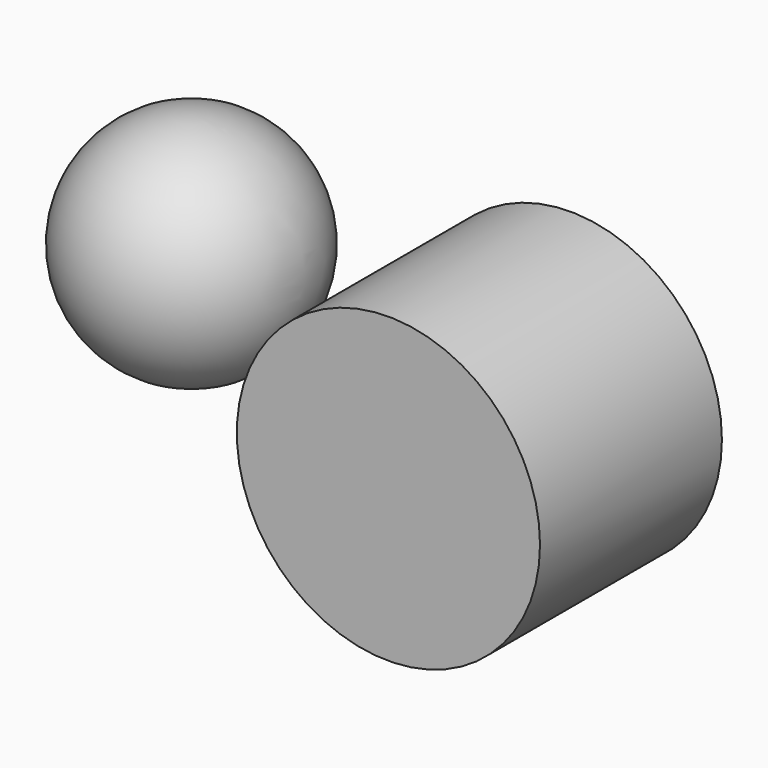
from build123d import *

# Parameters (mm, degrees)
F1_R     = 2
F2_DEPTH = 3


with BuildPart() as f2:
    # F1 (on Front) → F2 (new body)
    with BuildSketch(Plane.XZ):
        Circle(F1_R)
    extrude(amount=F2_DEPTH)


with BuildPart() as f4:
    # F3 (on Front) → F4 (revolve)
    with BuildSketch(Plane.XZ):
        with BuildLine():
            Line((-5, 1.5), (-5, -1.5))
            ThreePointArc((-5, -1.5), (-3.5, 0), (-5, 1.5))
        make_face()
    revolve(axis=Axis((-5, 0, 0), (0, 0, -1)))


solid = Compound([f2.part, f4.part])
